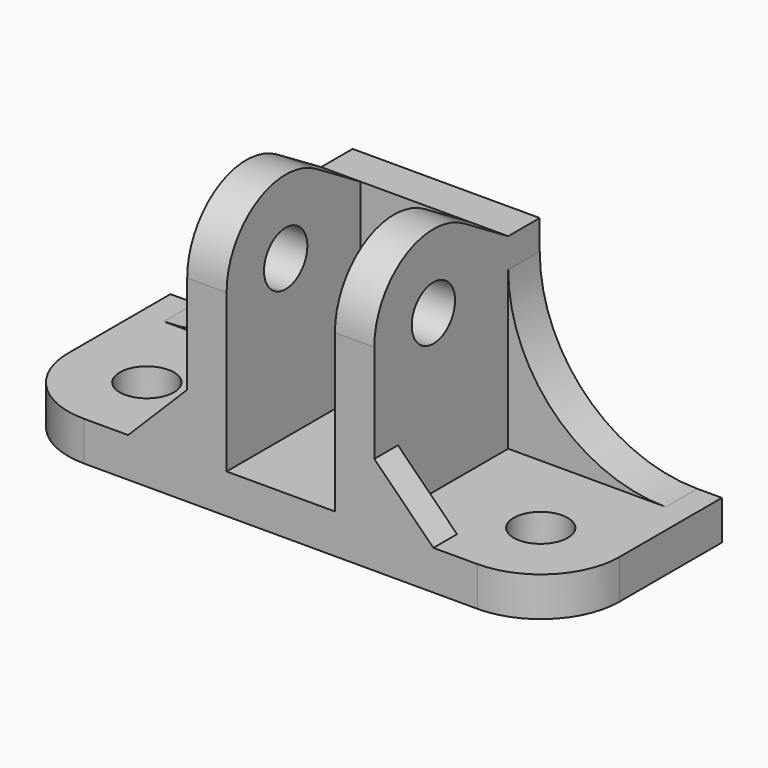
from build123d import *

# Parameters (mm, degrees)
F0_R     = 8.73125
F1_DEPTH = 12.7
F2_R     = 8.73125
F3_DEPTH = 30.1625
F5_DEPTH = 17.4625
F7_DEPTH = 9.525
F9_DEPTH = 12.7


with BuildPart() as f1:
    # F0 (on Top) → F1 (new body)
    with BuildSketch(Plane.XY):
        with BuildLine():
            ThreePointArc((-88.9, -7.9375), (-81.4605122421, -25.8980122421), (-63.5, -33.3375))
            ThreePointArc((-63.5, -33.3375), (-45.5394877579, -25.8980122421), (-38.1, -7.9375))
            ThreePointArc((-38.1, -7.9375), (-63.5, 17.4625), (-88.9, -7.9375))
        make_face()
        with Locations((-63.5, -7.9375)):
            Circle(F0_R, mode=Mode.SUBTRACT)
        with BuildLine():
            ThreePointArc((-38.1, -7.9375), (-45.5394877579, -25.8980122421), (-63.5, -33.3375))
            Line((-63.5, -33.3375), (63.5, -33.3375))
            ThreePointArc((63.5, -33.3375), (45.5394877579, 10.0230122421), (88.9, -7.9375))
            Line((88.9, -7.9375), (88.9, 33.3375))
            Line((88.9, 33.3375), (-88.9, 33.3375))
            Line((-88.9, 33.3375), (-88.9, -7.9375))
            ThreePointArc((-88.9, -7.9375), (-63.5, 17.4625), (-38.1, -7.9375))
        make_face()
        with BuildLine():
            ThreePointArc((88.9, -7.9375), (45.5394877579, 10.0230122421), (63.5, -33.3375))
            ThreePointArc((63.5, -33.3375), (81.4605122421, -25.8980122421), (88.9, -7.9375))
        make_face()
        with Locations((63.5, -7.9375)):
            Circle(F0_R, mode=Mode.SUBTRACT)
    extrude(amount=F1_DEPTH)

    # F2 (on Right) → F3 (join, symmetric)
    with BuildSketch(Plane.YZ):
        with BuildLine():
            Line((-33.3375, 63.5), (-33.3375, 12.7))
            Line((-33.3375, 12.7), (-7.9375, 12.7))
            Line((-7.9375, 12.7), (33.3375, 12.7))
            Line((33.3375, 12.7), (33.3375, 73.025))
            Line((33.3375, 73.025), (20.6375, 73.025))
            Line((20.6375, 73.025), (2.8497470207, 83.8445519101))
            ThreePointArc((2.8497470207, 83.8445519101), (11.2320327802, 75.169650655), (14.2875, 63.5))
            ThreePointArc((14.2875, 63.5), (-9.525, 39.6875), (-33.3375, 63.5))
        make_face()
        with BuildLine():
            ThreePointArc((2.8497470207, 83.8445519101), (-21.194650655, 84.2570327802), (-33.3375, 63.5))
            ThreePointArc((-33.3375, 63.5), (-9.525, 39.6875), (14.2875, 63.5))
            ThreePointArc((14.2875, 63.5), (11.2320327802, 75.169650655), (2.8497470207, 83.8445519101))
        make_face()
        with Locations((-9.525, 63.5)):
            Circle(F2_R, mode=Mode.SUBTRACT)
    extrude(amount=F3_DEPTH, both=True)

    # F4 (on Right) → F5 (cut, symmetric)
    with BuildSketch(Plane.YZ):
        with BuildLine():
            Line((-33.3375, 12.7), (-7.9375, 12.7))
            Line((-7.9375, 12.7), (20.6375, 12.7))
            Line((20.6375, 12.7), (20.6375, 73.025))
            Line((20.6375, 73.025), (2.8497467045, 83.8445521025))
            ThreePointArc((2.8497467045, 83.8445521025), (-21.1946508163, 84.2570326896), (-33.3375, 63.5))
            Line((-33.3375, 63.5), (-33.3375, 12.7))
        make_face()
    extrude(amount=F5_DEPTH, both=True, mode=Mode.SUBTRACT)

    # F6 (on face) → F7 (join)
    with BuildSketch(Plane.XZ.offset(33.3375)):
        Polygon((-30.1625, 31.75), (-49.2125, 12.7), (-30.1625, 12.7), align=None)
        Polygon((30.1625, 31.75), (30.1625, 12.7), (49.2125, 12.7), align=None)
    extrude(amount=-F7_DEPTH)

    # F8 (on face) → F9 (join, through all)
    with BuildSketch(Plane(origin=(0, 33.3375, 0), x_dir=(-1, 0, 0), z_dir=(0, 1, 0))):
        with BuildLine():
            ThreePointArc((-30.1625, 63.5), (-45.0414755157, 27.5789755157), (-80.9625, 12.7))
            Line((-80.9625, 12.7), (-30.1625, 12.7))
            Line((-30.1625, 12.7), (-30.1625, 63.5))
        make_face()
        with BuildLine():
            ThreePointArc((80.9625, 12.7), (45.0414755157, 27.5789755157), (30.1625, 63.5))
            Line((30.1625, 63.5), (30.1625, 12.7))
            Line((30.1625, 12.7), (80.9625, 12.7))
        make_face()
    extrude(amount=-F9_DEPTH)


solid = f1.part
